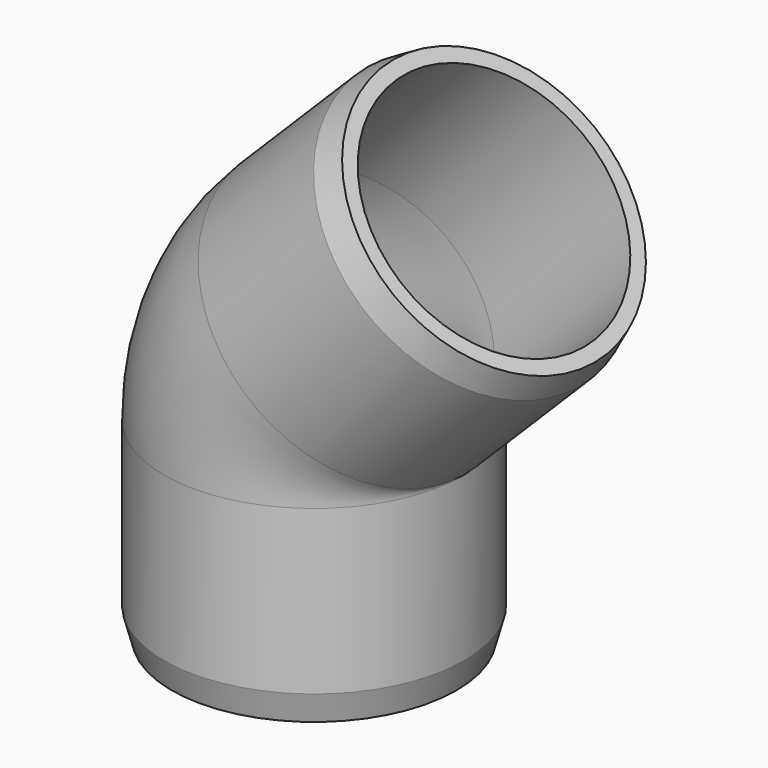
from build123d import *

# Parameters (mm, degrees)
F2_R     = 24.765
F2_R_2   = 21.082
F4_SIZE2 = 1.27
F4_SIZE  = 4.7397045256
F5_SIZE2 = 1.27
F5_SIZE  = 4.7397045256


with BuildPart() as f3:
    # F3: sweep along a path in F0
    with BuildLine(Plane.XZ) as f3_path:
        Line((0, -42.0079988722), (0, -10.3106039946))
        ThreePointArc((0, -10.3106039946), (1.8947906767, -0.7848479962), (7.2906980027, 7.2906980027))
        Line((7.2906980027, 7.2906980027), (29.7041408666, 29.7041408666))
    # F2 (on plane+point) → F3 (sweep)
    with BuildSketch(Plane.XY.offset(-42.0079988722)):
        Circle(F2_R)
        Circle(F2_R_2, mode=Mode.SUBTRACT)
    sweep(path=f3_path.line)

    # F4
    f4_edges = [f3.edges().sort_by_distance(p)[0] for p in [
        (12.192641, 0, 47.21564),
    ]]
    f4_side = f3.faces().sort_by_distance((0.98592, 0, 36.008919))[0]
    chamfer(f4_edges, length=F4_SIZE, length2=F4_SIZE2, reference=f4_side)

    # F5
    f5_edges = [f3.edges().sort_by_distance(p)[0] for p in [
        (-24.765, 0, -42.007999),
    ]]
    f5_side = f3.faces().sort_by_distance((-24.765, 0, -26.159301))[0]
    chamfer(f5_edges, length=F5_SIZE, length2=F5_SIZE2, reference=f5_side)


solid = f3.part
